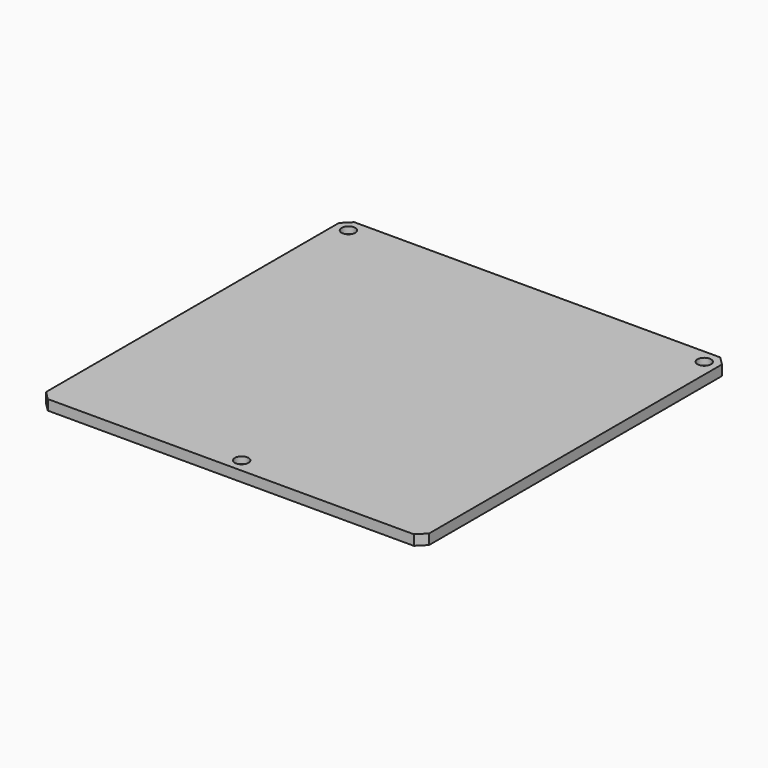
from build123d import *

# Parameters (mm, degrees)
F0_W     = 225
F0_H     = 225
F0_R     = 1.5
F1_DEPTH = 6
F2_R     = 4
F3_DEPTH = 4
F4_SIZE  = 5
F6_D     = 2.5
F6_DEPTH = 4.5
F6_TIP   = 0.7510757738
F7_D     = 2.5
F7_DEPTH = 2.5
F7_TIP   = 0.7510757738


with BuildPart() as f1:
    # F0 (on Top) → F1 (new body)
    with BuildSketch(Plane.XY):
        with Locations((112.5, 112.5)):
            Rectangle(F0_W, F0_H)
        with Locations((112.5, 8)):
            Circle(F0_R, mode=Mode.SUBTRACT)
        with Locations((8, 217)):
            Circle(F0_R, mode=Mode.SUBTRACT)
        with Locations((217, 217)):
            Circle(F0_R, mode=Mode.SUBTRACT)
    extrude(amount=F1_DEPTH)

    # F2 (on face) → F3 (cut)
    with BuildSketch(Plane.XY.offset(6)):
        with Locations((112.5, 8)):
            Circle(F2_R)
        with Locations((8, 217)):
            Circle(F2_R)
        with Locations((217, 217)):
            Circle(F2_R)
    extrude(amount=-F3_DEPTH, mode=Mode.SUBTRACT)

    # F4
    f4_edges = [f1.edges().sort_by_distance(p)[0] for p in [
        (225, 0, 3),
        (0, 0, 3),
        (225, 225, 3),
        (0, 225, 3),
    ]]
    chamfer(f4_edges, length=F4_SIZE)

    # F6
    with Locations(Plane(origin=(0, 0, 0), x_dir=(1, 0, 0), z_dir=(0, 0, -1))):
        with Locations((100.5, -220), (124.5, -220), (142.5, -220)):
            Hole(F6_D / 2, depth=F6_DEPTH)
            with Locations((0, 0, -(F6_DEPTH + F6_TIP / 2))):  # 118° drill point
                Cone(0, F6_D / 2, F6_TIP, mode=Mode.SUBTRACT)

    # F7
    with Locations(Plane(origin=(0, 0, 0), x_dir=(1, 0, 0), z_dir=(0, 0, -1))):
        with Locations((145.5, -220)):
            Hole(F7_D / 2, depth=F7_DEPTH)
            with Locations((0, 0, -(F7_DEPTH + F7_TIP / 2))):  # 118° drill point
                Cone(0, F7_D / 2, F7_TIP, mode=Mode.SUBTRACT)


solid = f1.part
